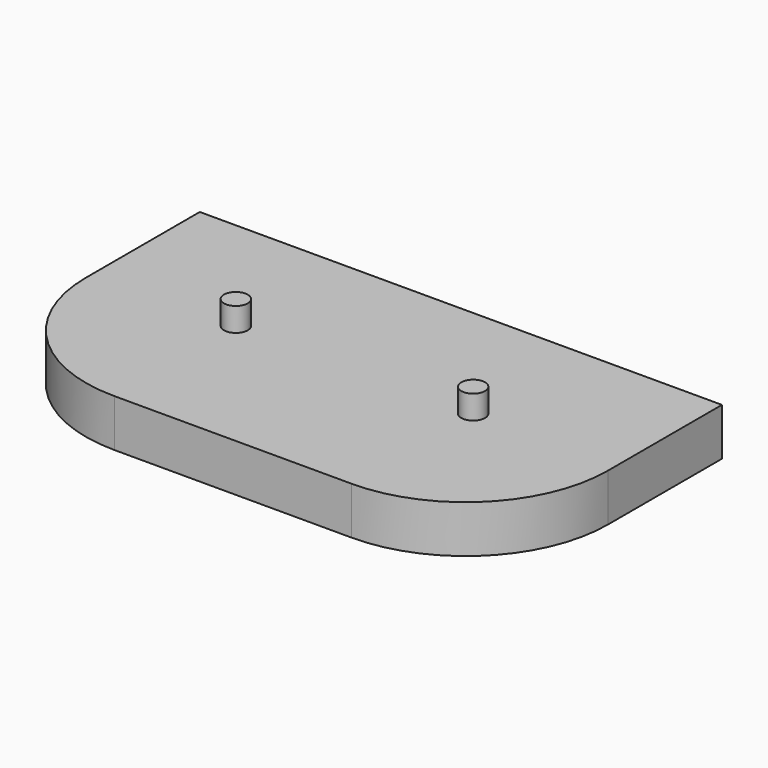
from build123d import *

# Parameters (mm, degrees)
F0_W     = 34.925
F0_H     = 19.05
F0_R     = 0.79375
F1_DEPTH = 1.5875
F2_DEPTH = 3.175
F3_R     = 9.525


with BuildPart() as f1:
    # F0 (on Top) → F1 (new body, symmetric)
    with BuildSketch(Plane.XY):
        Rectangle(F0_W, F0_H)
        with Locations((-7.9375, 0.635)):
            Circle(F0_R, mode=Mode.SUBTRACT)
        with Locations((7.9375, 0.635)):
            Circle(F0_R, mode=Mode.SUBTRACT)
        with Locations((-7.9375, 0.635)):
            Circle(F0_R)
        with Locations((7.9375, 0.635)):
            Circle(F0_R)
    extrude(amount=F1_DEPTH, both=True)

    # F0 (on Top) → F2 (join)
    with BuildSketch(Plane.XY):
        with Locations((-7.9375, 0.635)):
            Circle(F0_R)
        with Locations((7.9375, 0.635)):
            Circle(F0_R)
    extrude(amount=F2_DEPTH)

    # F3
    f3_edges = [f1.edges().sort_by_distance(p)[0] for p in [
        (17.4625, -9.525, 0),
        (-17.4625, -9.525, 0),
    ]]
    fillet(f3_edges, radius=F3_R)


solid = f1.part
